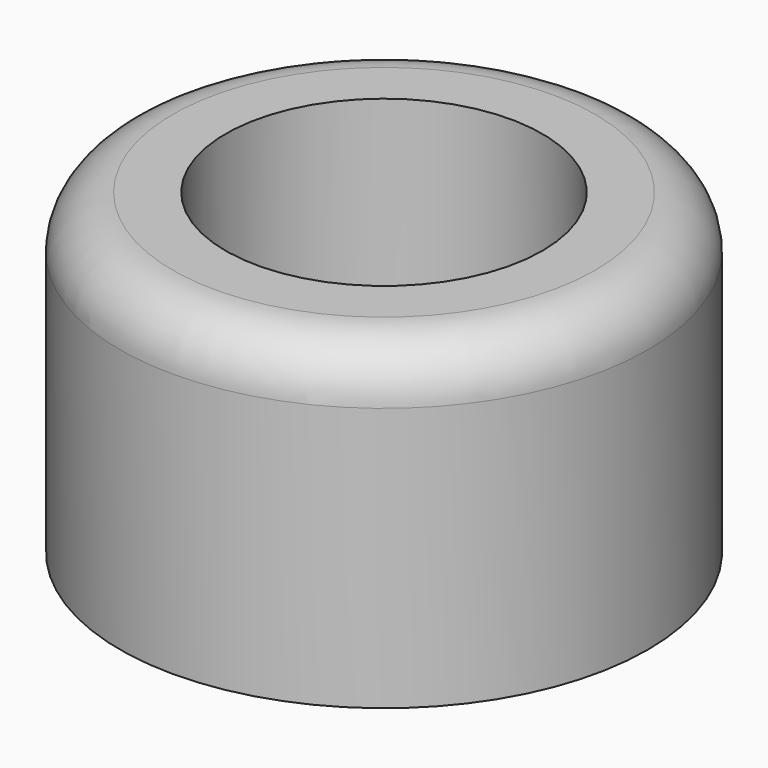
from build123d import *

# Parameters (mm, degrees)
CYLINDER032_R     = 2
CYLINDER032_DEPTH = 10
CYLINDER030_R     = 3
CYLINDER030_DEPTH = 10
CYLINDER031_R     = 5
CYLINDER031_DEPTH = 6
FILLET008_R       = 1


with BuildPart() as hole_cylinder:
    # Cylinder032 → Cylinder032 (new body)
    with BuildSketch(Plane.XY):
        Circle(CYLINDER032_R)
    extrude(amount=CYLINDER032_DEPTH)


with BuildPart() as fusion010:
    # Cylinder030 → Cylinder030 (new body)
    with BuildSketch(Plane.XY.offset(1)):
        Circle(CYLINDER030_R)
    extrude(amount=CYLINDER030_DEPTH)

    # Fusion010: union hole cylinder
    add(hole_cylinder.part)


with BuildPart() as fillet008:
    # Cylinder031 → Cylinder031 (new body)
    with BuildSketch(Plane.XY):
        Circle(CYLINDER031_R)
    extrude(amount=CYLINDER031_DEPTH)

    # Cut012: cut Fusion010
    add(fusion010.part, mode=Mode.SUBTRACT)

    # Fillet008
    fillet008_edges = [fillet008.edges().sort_by_distance(p)[0] for p in [
        (-5, 0, 6),
    ]]
    fillet(fillet008_edges, radius=FILLET008_R)


solid = fillet008.part
